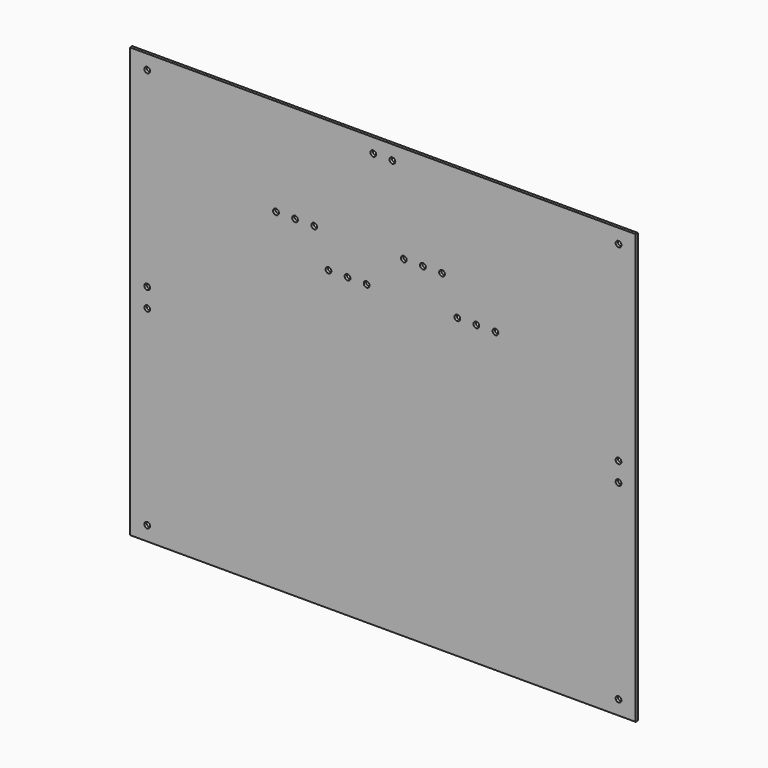
from build123d import *

# Parameters (mm, degrees)
F0_W     = 530
F0_H     = 450
F0_R     = 3
F1_DEPTH = 3


with BuildPart() as f1:
    # F0 (on Front) → F1 (new body)
    with BuildSketch(Plane.XZ):
        with Locations((265, 225)):
            Rectangle(F0_W, F0_H)
        with Locations((18, 15)):
            Circle(F0_R, mode=Mode.SUBTRACT)
        with Locations((18, 215)):
            Circle(F0_R, mode=Mode.SUBTRACT)
        with Locations((512, 15)):
            Circle(F0_R, mode=Mode.SUBTRACT)
        with BuildLine():
            ThreePointArc((410, 95), (405.606602, 84.393398), (395, 80))
            Line((395, 80), (135, 80))
            ThreePointArc((135, 80), (124.393398, 84.393398), (120, 95))
            Line((120, 95), (120, 315))
            ThreePointArc((120, 315), (124.393398, 325.606602), (135, 330))
            Line((135, 330), (395, 330))
            ThreePointArc((395, 330), (405.606602, 325.606602), (410, 315))
            Line((410, 315), (410, 95))
        make_face(mode=Mode.SUBTRACT)
        with Locations((512, 215)):
            Circle(F0_R, mode=Mode.SUBTRACT)
        with Locations((18, 235)):
            Circle(F0_R, mode=Mode.SUBTRACT)
        with Locations((18, 435)):
            Circle(F0_R, mode=Mode.SUBTRACT)
        with Locations((153, 348)):
            Circle(F0_R, mode=Mode.SUBTRACT)
        with Locations((173, 348)):
            Circle(F0_R, mode=Mode.SUBTRACT)
        with Locations((193, 348)):
            Circle(F0_R, mode=Mode.SUBTRACT)
        with Locations((255, 435)):
            Circle(F0_R, mode=Mode.SUBTRACT)
        with Locations((512, 235)):
            Circle(F0_R, mode=Mode.SUBTRACT)
        with Locations((287, 348)):
            Circle(F0_R, mode=Mode.SUBTRACT)
        with Locations((307, 348)):
            Circle(F0_R, mode=Mode.SUBTRACT)
        with Locations((327, 348)):
            Circle(F0_R, mode=Mode.SUBTRACT)
        with Locations((275, 435)):
            Circle(F0_R, mode=Mode.SUBTRACT)
        with Locations((512, 435)):
            Circle(F0_R, mode=Mode.SUBTRACT)
        with BuildLine():
            Line((135, 80), (395, 80))
            ThreePointArc((395, 80), (405.606602, 84.393398), (410, 95))
            Line((410, 95), (410, 315))
            ThreePointArc((410, 315), (405.606602, 325.606602), (395, 330))
            Line((395, 330), (135, 330))
            ThreePointArc((135, 330), (124.393398, 325.606602), (120, 315))
            Line((120, 315), (120, 95))
            ThreePointArc((120, 95), (124.393398, 84.393398), (135, 80))
        make_face()
        with Locations((208, 312)):
            Circle(F0_R, mode=Mode.SUBTRACT)
        with Locations((228, 312)):
            Circle(F0_R, mode=Mode.SUBTRACT)
        with Locations((248, 312)):
            Circle(F0_R, mode=Mode.SUBTRACT)
        with Locations((343, 312)):
            Circle(F0_R, mode=Mode.SUBTRACT)
        with Locations((363, 312)):
            Circle(F0_R, mode=Mode.SUBTRACT)
        with Locations((383, 312)):
            Circle(F0_R, mode=Mode.SUBTRACT)
    extrude(amount=F1_DEPTH)


solid = f1.part
